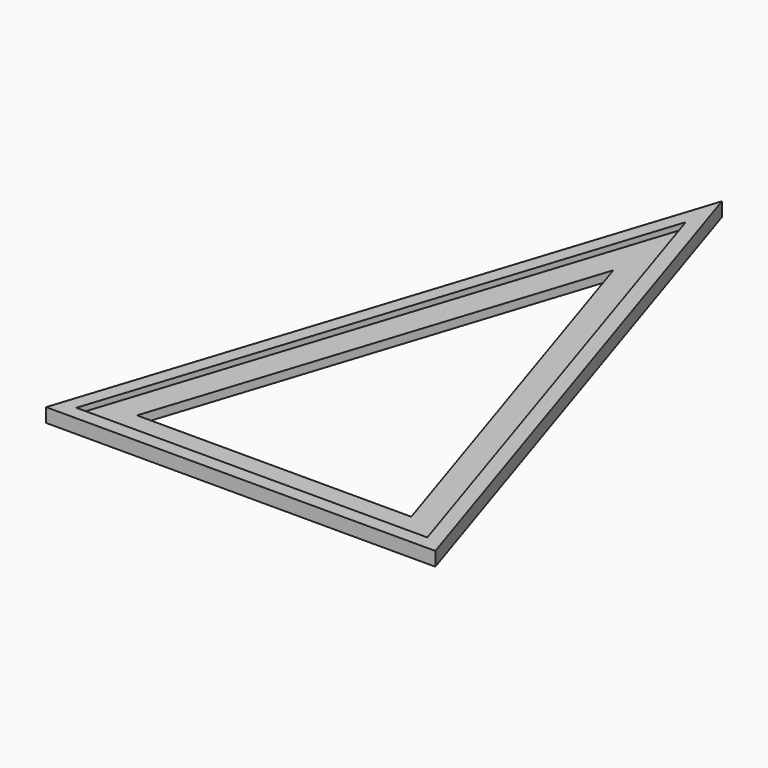
from build123d import *

# Parameters (mm, degrees)
F1_DEPTH = 5
F2_DEPTH = 3


with BuildPart() as f1:
    # F0 (on Top) → F1 (new body)
    with BuildSketch(Plane.XY):
        Polygon((0, 107.95), (-69.85, -107.95), (69.85, -107.95), align=None)
        Polygon((62.977186, -102.95), (-62.977186, -102.95), (0, 91.706756), align=None, mode=Mode.SUBTRACT)
    extrude(amount=F1_DEPTH)

    # F0 (on Top) → F2 (join)
    with BuildSketch(Plane.XY):
        Polygon((0, 91.706756), (-62.977186, -102.95), (62.977186, -102.95), align=None)
        Polygon((-49.231557, -92.95), (0, 59.220268), (49.231557, -92.95), align=None, mode=Mode.SUBTRACT)
    extrude(amount=F2_DEPTH)


solid = f1.part
